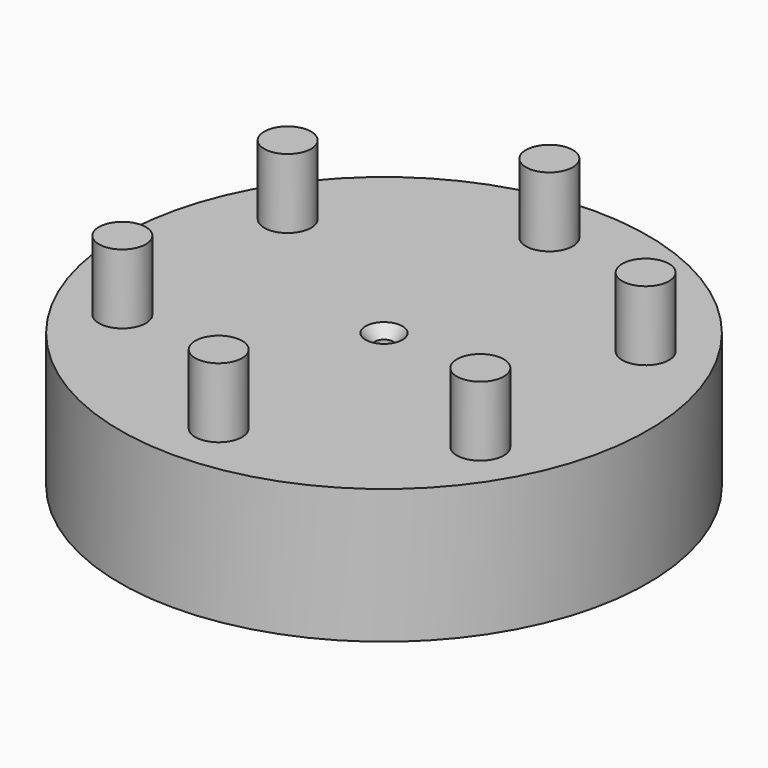
from build123d import *

# Parameters (mm, degrees)
F0_W           = 96.4018628001
F0_H           = 49.1270134225
F2_DEPTH       = 25.4
F3_R           = 96.4018628001
F3_R_2         = 8.561445451
F4_DEPTH       = 25.4
F6_D           = 6.7564
F6_CSINK_D     = 13.4874
F6_CSINK_ANGLE = 82


with BuildPart() as f1:
    # F0 (on Right) → F1 (revolve)
    with BuildSketch(Plane.YZ):
        with Locations((1.4167837799, 15.7836410217)):
            Rectangle(F0_W, F0_H)
    revolve(axis=Axis((0, -46.7841476202, 15.7836410217), (0, 0, -1)))

    # F2 (add): a face of the model
    f2_faces = [f1.faces().sort_by_distance(p)[0] for p in [
        (0, -46.7841476202, 40.347147733),
    ]]
    extrude(f2_faces, amount=F2_DEPTH)

    # F3 (on face) → F4 (cut)
    with BuildSketch(Plane.XY.offset(65.747147733)):
        with Locations((0, -46.7841476202)):
            Circle(F3_R)
        with Locations((-65.3880895687, -84.5359787345)):
            Circle(F3_R_2, mode=Mode.SUBTRACT)
        with Locations((0, -122.2878098488)):
            Circle(F3_R_2, mode=Mode.SUBTRACT)
        with Locations((65.3880895687, -84.5359787345)):
            Circle(F3_R_2, mode=Mode.SUBTRACT)
        with Locations((-65.3880895687, -9.0323165059)):
            Circle(F3_R_2, mode=Mode.SUBTRACT)
        with Locations((65.3880895687, -9.0323165059)):
            Circle(F3_R_2, mode=Mode.SUBTRACT)
        with Locations((0, 28.7195146084)):
            Circle(F3_R_2, mode=Mode.SUBTRACT)
    extrude(amount=-F4_DEPTH, mode=Mode.SUBTRACT)

    # F6 (through all)
    with Locations(Plane.XY.offset(40.347147733)):
        with Locations((0, -46.7841476202)):
            CounterSinkHole(F6_D / 2, F6_CSINK_D / 2, counter_sink_angle=F6_CSINK_ANGLE)


solid = f1.part
